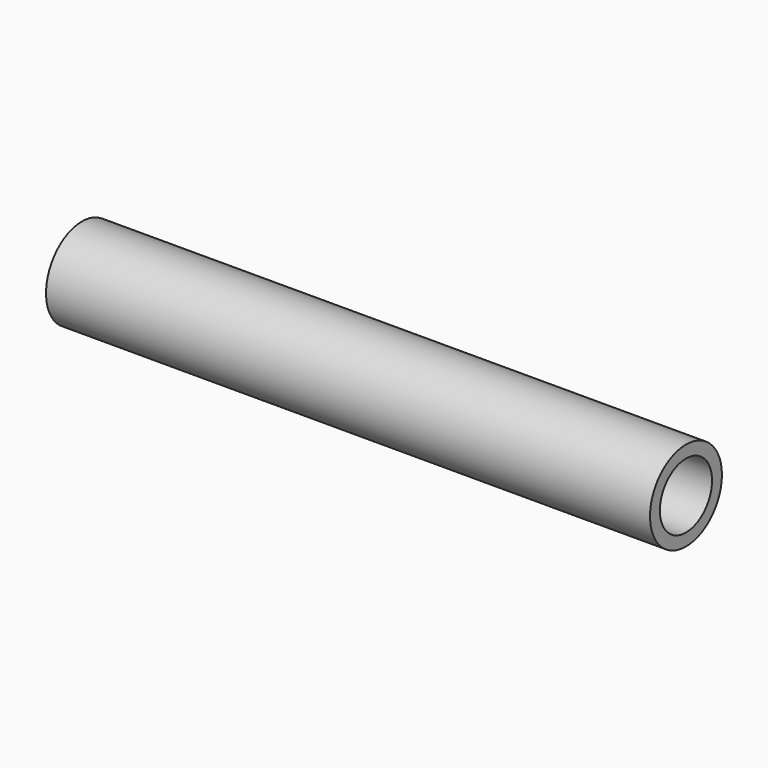
from build123d import *

# Parameters (mm, degrees)
F0_R     = 11.1125
F1_DEPTH = 149.352
F2_T     = -3.048


with BuildPart() as f1:
    # F0 (on Right) → F1 (new body)
    with BuildSketch(Plane.YZ):
        Circle(F0_R)
    extrude(amount=F1_DEPTH)

    # F2
    f2_openings = [f1.faces().sort_by_distance(p)[0] for p in [
        (149.352, 0, 0),
        (0, 0, 0),
    ]]
    offset(amount=F2_T, openings=f2_openings)


solid = f1.part
